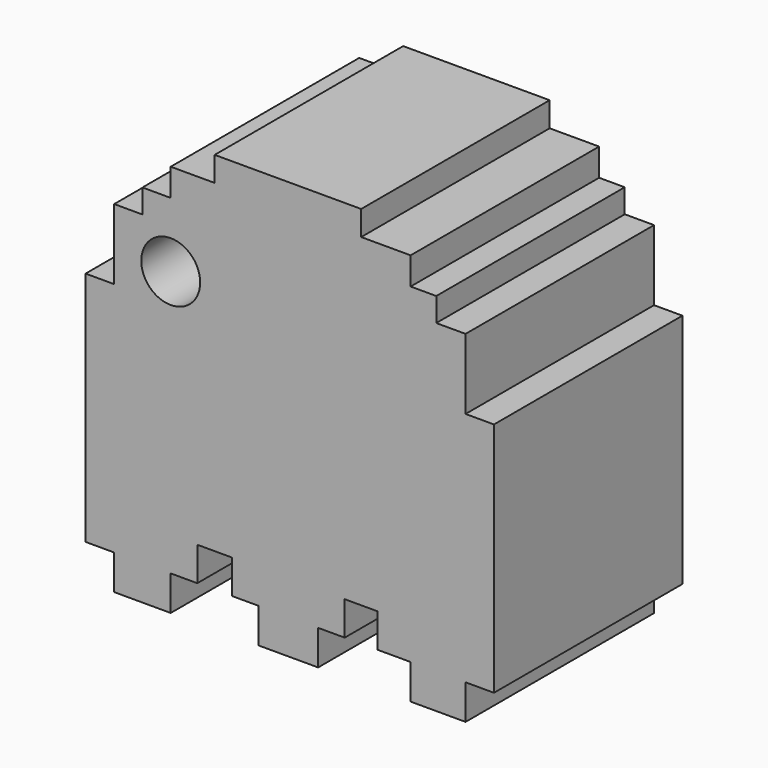
from build123d import *

# Parameters (mm, degrees)
F0_W     = 25.4
F0_H     = 25.4
F1_DEPTH = 12.7
F3_DEPTH = 12.7
F4_R     = 1.5875
F5_DEPTH = 12.7


with BuildPart() as f1:
    # F0 (on Front) → F1 (new body)
    with BuildSketch(Plane.XZ):
        with Locations((12.7, 12.7)):
            Rectangle(F0_W, F0_H)
    extrude(amount=F1_DEPTH)

    # F2 (on face) → F3 (cut)
    with BuildSketch(Plane.XZ.offset(12.7)):
        Polygon((0, 0), (3.20243, 0), (3.20243, 1.880125), (1.660184, 1.880125), (1.660184, 14.615892), (3.20243, 14.615892), (3.20243, 18.416876), (4.726184, 18.416876), (4.726184, 19.700326), (6.249938, 19.700326), (6.249938, 21.18123), (8.620429, 21.18123), (8.620429, 22.514043), (16.518579, 22.514043), (16.518579, 21.18123), (19.184204, 21.18123), (19.184204, 19.700326), (20.566382, 19.700326), (20.566382, 18.416876), (22.146011, 18.416876), (22.146011, 14.615892), (23.676278, 14.615892), (23.676278, 1.880125), (22.146011, 1.880125), (22.146011, 0), (25.4, 0), (25.4, 25.4), (0, 25.4), align=None)
        Polygon((14.198497, 1.880125), (14.198497, 0), (19.184204, 0), (19.184204, 1.880125), (17.407121, 1.880125), (17.407121, 3.706572), (15.630037, 3.706572), (15.630037, 1.880125), align=None)
        Polygon((6.249938, 1.880125), (6.249938, 0), (10.989874, 0), (10.989874, 1.880125), (9.558334, 1.880125), (9.558334, 3.706572), (7.682523, 3.706572), (7.682523, 1.880125), align=None)
    extrude(amount=-F3_DEPTH, mode=Mode.SUBTRACT)

    # F4 (on face) → F5 (cut)
    with BuildSketch(Plane.XZ.offset(12.7)):
        with Locations((6.249938, 16.203392)):
            Circle(F4_R)
    extrude(amount=-F5_DEPTH, mode=Mode.SUBTRACT)


solid = f1.part
